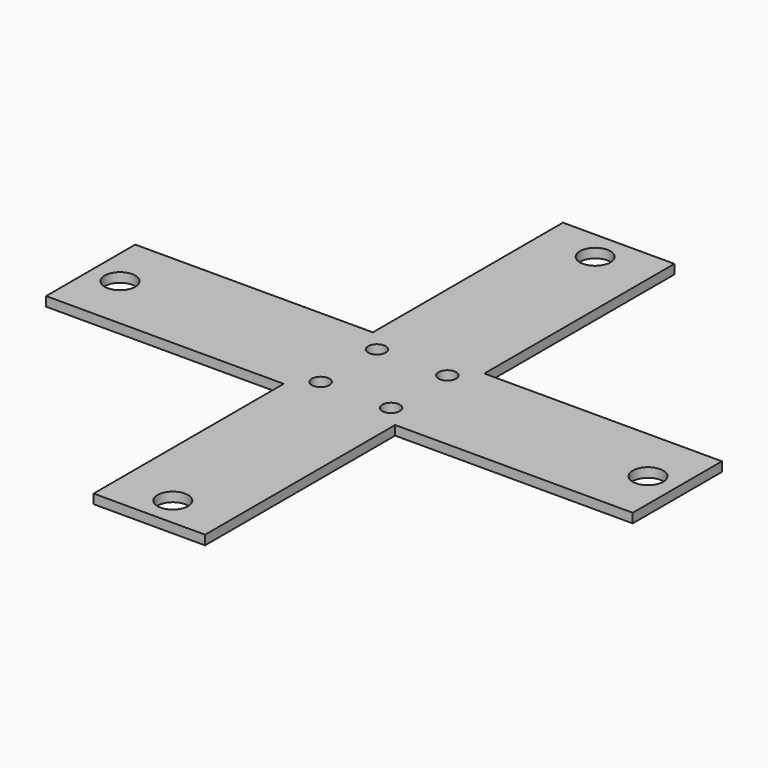
from build123d import *

# Parameters (mm, degrees)
F0_R     = 1.5
F0_R_2   = 2.6
F1_DEPTH = 1.6


with BuildPart() as f1:
    # F0 (on Top) → F1 (new body)
    with BuildSketch(Plane.XY):
        Polygon((9.5, 50), (-9.5, 50), (-9.5, 9.5), (-50, 9.5), (-50, -9.5), (-9.5, -9.5), (-9.5, -50), (9.5, -50), (9.5, -9.5), (50, -9.5), (50, 9.5), (9.5, 9.5), align=None)
        with Locations((-6, -6)):
            Circle(F0_R, mode=Mode.SUBTRACT)
        with Locations((0, -45)):
            Circle(F0_R_2, mode=Mode.SUBTRACT)
        with Locations((6, -6)):
            Circle(F0_R, mode=Mode.SUBTRACT)
        with Locations((-45, 0)):
            Circle(F0_R_2, mode=Mode.SUBTRACT)
        with Locations((-6, 6)):
            Circle(F0_R, mode=Mode.SUBTRACT)
        with Locations((6, 6)):
            Circle(F0_R, mode=Mode.SUBTRACT)
        with Locations((45, 0)):
            Circle(F0_R_2, mode=Mode.SUBTRACT)
        with Locations((0, 45)):
            Circle(F0_R_2, mode=Mode.SUBTRACT)
    extrude(amount=F1_DEPTH)


solid = f1.part
